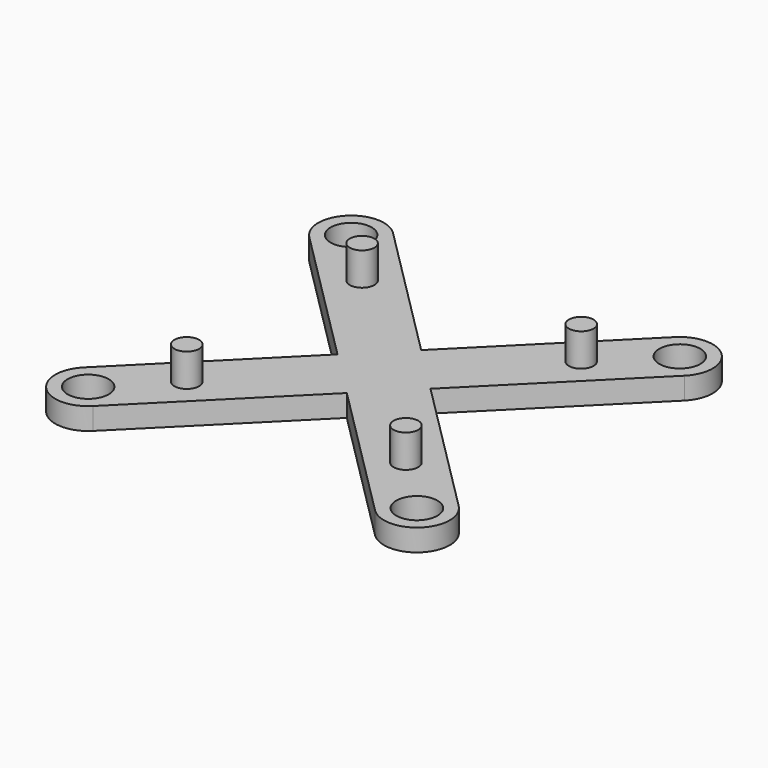
from build123d import *

# Parameters (mm, degrees)
F5_DEPTH = 2
F3_R     = 1.875
F6_DEPTH = 10
F4_R     = 1.125
F7_DEPTH = 5


with BuildPart() as f5:
    # F2 (on Top) → F5 (new body)
    with BuildSketch(Plane.XY):
        with BuildLine():
            Line((-18, 22.242641), (-30.87868, 35.12132))
            ThreePointArc((-30.87868, 35.12132), (-35.12132, 35.12132), (-35.12132, 30.87868))
            Line((-35.12132, 30.87868), (-22.242641, 18))
            Line((-22.242641, 18), (-35.12132, 5.12132))
            ThreePointArc((-35.12132, 5.12132), (-35.12132, 0.87868), (-30.87868, 0.87868))
            Line((-30.87868, 0.87868), (-18, 13.757359))
            Line((-18, 13.757359), (-5.12132, 0.87868))
            ThreePointArc((-5.12132, 0.87868), (-0.87868, 0.87868), (-0.87868, 5.12132))
            Line((-0.87868, 5.12132), (-13.757359, 18))
            Line((-13.757359, 18), (-0.87868, 30.87868))
            ThreePointArc((-0.87868, 30.87868), (-0.87868, 35.12132), (-5.12132, 35.12132))
            Line((-5.12132, 35.12132), (-18, 22.242641))
        make_face()
    extrude(amount=F5_DEPTH)

    # F3 (on Top) → F6 (cut)
    with BuildSketch(Plane.XY):
        with Locations((-33, 33)):
            Circle(F3_R)
        with Locations((-3, 33)):
            Circle(F3_R)
        with Locations((-3, 3)):
            Circle(F3_R)
        with Locations((-33, 3)):
            Circle(F3_R)
    extrude(amount=F6_DEPTH, mode=Mode.SUBTRACT)

    # F4 (on Top) → F7 (join)
    with BuildSketch(Plane.XY):
        with Locations((-28, 8)):
            Circle(F4_R)
        with Locations((-8, 8)):
            Circle(F4_R)
        with Locations((-8, 28)):
            Circle(F4_R)
        with Locations((-28, 28)):
            Circle(F4_R)
    extrude(amount=F7_DEPTH)


solid = f5.part
